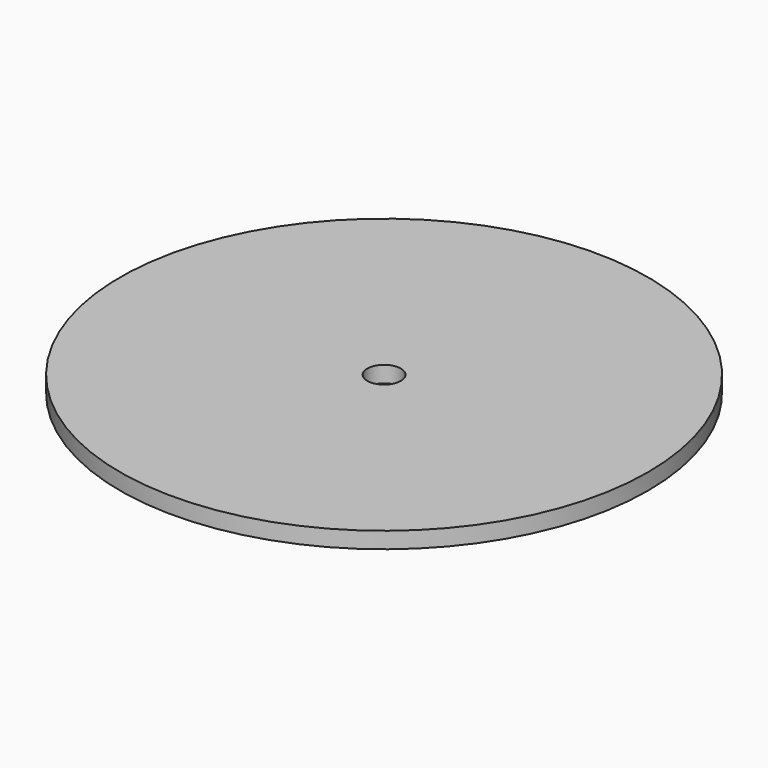
from build123d import *

# Parameters (mm, degrees)
SKETCH001_R   = 300
SKETCH001_R_2 = 19.05
PAD_DEPTH     = 18.5


with BuildPart() as part:
    # Sketch001 → Pad (new body)
    with BuildSketch(Plane.XY):
        Circle(SKETCH001_R)
        Circle(SKETCH001_R_2, mode=Mode.SUBTRACT)
    extrude(amount=PAD_DEPTH)


solid = part.part
